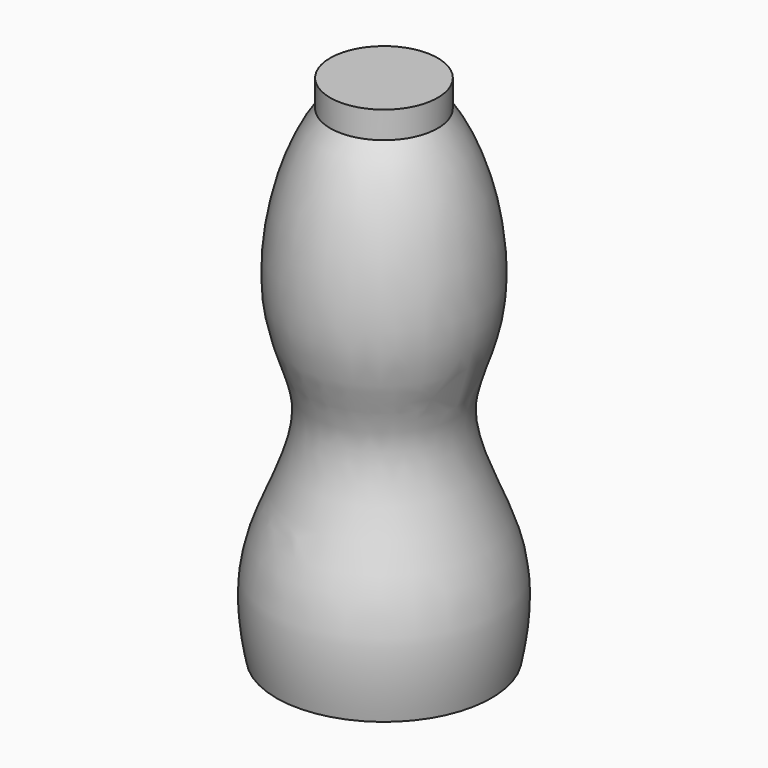
from build123d import *


with BuildPart() as f1:
    # F0 (on Front) → F1 (revolve)
    with BuildSketch(Plane.XZ):
        with BuildLine():
            Line((-20, -26.4792886381), (0, -26.4792886381))
            Line((0, -26.4792886381), (0, 68.5207113619))
            Line((0, 68.5207113619), (-10, 68.5207113619))
            Line((-10, 68.5207113619), (-10, 63.5207113619))
            add(Edge.make_bspline(
                [(-20, -26.4792886381), (-22.8647563836, -12.8543086659), (-17.8905023898, -1.8128362246), (-10.8736926375, 15.8681609189), (-20.6448262097, 31.1008320561), (-16.1974629406, 55.0271745118), (-10, 63.5207113619)],
                knots=[0, 0, 0, 0, 0.2721041245, 0.4812025583, 0.697980571, 1, 1, 1, 1], degree=3))
        make_face()
    revolve(axis=Axis((0, 0, 21.0207113619), (0, 0, -1)))


solid = f1.part
